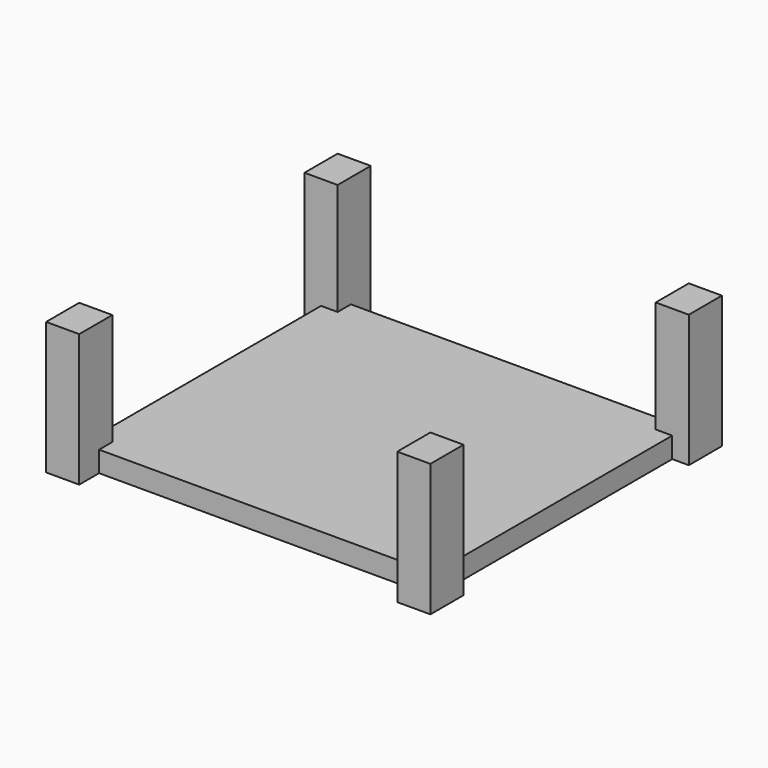
from build123d import *

# Parameters (mm, degrees)
F1_W       = 40
F1_H       = 50
F2_DEPTH   = 160
F4_D       = 31
F4_DEPTH   = 30
F4_TIP     = 9.3133395949
F4_2_D     = 31
F4_2_DEPTH = 30
F4_2_TIP   = 9.3133395949
F4_3_D     = 31
F4_3_DEPTH = 30
F4_3_TIP   = 9.3133395949
F4_4_D     = 31
F4_4_DEPTH = 30
F4_4_TIP   = 9.3133395949
F6_DEPTH   = 25


with BuildPart() as f2:
    # F1 (on Top) → F2 (new body)
    with BuildSketch(Plane.XY):
        with Locations((-282.0319264125, 94.2301812497)):
            Rectangle(F1_W, F1_H)
    extrude(amount=F2_DEPTH)

    # F4
    with Locations(Plane(origin=(0, 0, 0), x_dir=(1, 0, 0), z_dir=(0, 0, -1))):
        with Locations((-282.0319264125, 295.7698187503), (-282.0319264125, -94.2301812497), (141.9680735875, -94.2301812497), (141.9680735875, 295.7698187503)):
            Hole(F4_D / 2, depth=F4_DEPTH)
            with Locations((0, 0, -(F4_DEPTH + F4_TIP / 2))):  # 118° drill point
                Cone(0, F4_D / 2, F4_TIP, mode=Mode.SUBTRACT)


with BuildPart() as f2b:
    # F1 (on Top) → F2, piece 2 (new body)
    with BuildSketch(Plane.XY):
        with Locations((141.9680735875, 94.2301812497)):
            Rectangle(F1_W, F1_H)
    extrude(amount=F2_DEPTH)

    # F4#2
    with Locations(Plane(origin=(0, 0, 0), x_dir=(1, 0, 0), z_dir=(0, 0, -1))):
        with Locations((-282.0319264125, 295.7698187503), (-282.0319264125, -94.2301812497), (141.9680735875, -94.2301812497), (141.9680735875, 295.7698187503)):
            Hole(F4_2_D / 2, depth=F4_2_DEPTH)
            with Locations((0, 0, -(F4_2_DEPTH + F4_2_TIP / 2))):  # 118° drill point
                Cone(0, F4_2_D / 2, F4_2_TIP, mode=Mode.SUBTRACT)


with BuildPart() as f2c:
    # F1 (on Top) → F2, piece 3 (new body)
    with BuildSketch(Plane.XY):
        with Locations((141.9680735875, -295.7698187503)):
            Rectangle(F1_W, F1_H)
    extrude(amount=F2_DEPTH)

    # F4#3
    with Locations(Plane(origin=(0, 0, 0), x_dir=(1, 0, 0), z_dir=(0, 0, -1))):
        with Locations((-282.0319264125, 295.7698187503), (-282.0319264125, -94.2301812497), (141.9680735875, -94.2301812497), (141.9680735875, 295.7698187503)):
            Hole(F4_3_D / 2, depth=F4_3_DEPTH)
            with Locations((0, 0, -(F4_3_DEPTH + F4_3_TIP / 2))):  # 118° drill point
                Cone(0, F4_3_D / 2, F4_3_TIP, mode=Mode.SUBTRACT)


with BuildPart() as f2d:
    # F1 (on Top) → F2, piece 4 (new body)
    with BuildSketch(Plane.XY):
        with Locations((-282.0319264125, -295.7698187503)):
            Rectangle(F1_W, F1_H)
    extrude(amount=F2_DEPTH)

    # F4#4
    with Locations(Plane(origin=(0, 0, 0), x_dir=(1, 0, 0), z_dir=(0, 0, -1))):
        with Locations((-282.0319264125, 295.7698187503), (-282.0319264125, -94.2301812497), (141.9680735875, -94.2301812497), (141.9680735875, 295.7698187503)):
            Hole(F4_4_D / 2, depth=F4_4_DEPTH)
            with Locations((0, 0, -(F4_4_DEPTH + F4_4_TIP / 2))):  # 118° drill point
                Cone(0, F4_4_D / 2, F4_4_TIP, mode=Mode.SUBTRACT)


with BuildPart() as f6:
    # F5 (on face) → F6 (new body)
    with BuildSketch(Plane(origin=(0, 0, 0), x_dir=(1, 0, 0), z_dir=(0, 0, -1))):
        Polygon((-262.0319264125, 290.7698187503), (-282.0319264125, 270.7698187503), (-262.0319264125, 270.7698187503), align=None)
        Polygon((-262.0319264125, 270.7698187503), (-282.0319264125, 270.7698187503), (-282.0319264125, -69.2301812497), (-262.0319264125, -69.2301812497), (-262.0319264125, -89.2301812497), (121.9680735875, -89.2301812497), (121.9680735875, -69.2301812497), (141.9680735875, -69.2301812497), (141.9680735875, 270.7698187503), (121.9680735875, 270.7698187503), (121.9680735875, 290.7698187503), (-262.0319264125, 290.7698187503), align=None)
        Polygon((-262.0319264125, -69.2301812497), (-282.0319264125, -69.2301812497), (-262.0319264125, -89.2301812497), align=None)
        Polygon((141.9680735875, 270.7698187503), (121.9680735875, 290.7698187503), (121.9680735875, 270.7698187503), align=None)
        Polygon((121.9680735875, -69.2301812497), (121.9680735875, -89.2301812497), (141.9680735875, -69.2301812497), align=None)
    extrude(amount=-F6_DEPTH)


solid = Compound([f2.part, f2b.part, f2c.part, f2d.part, f6.part])
